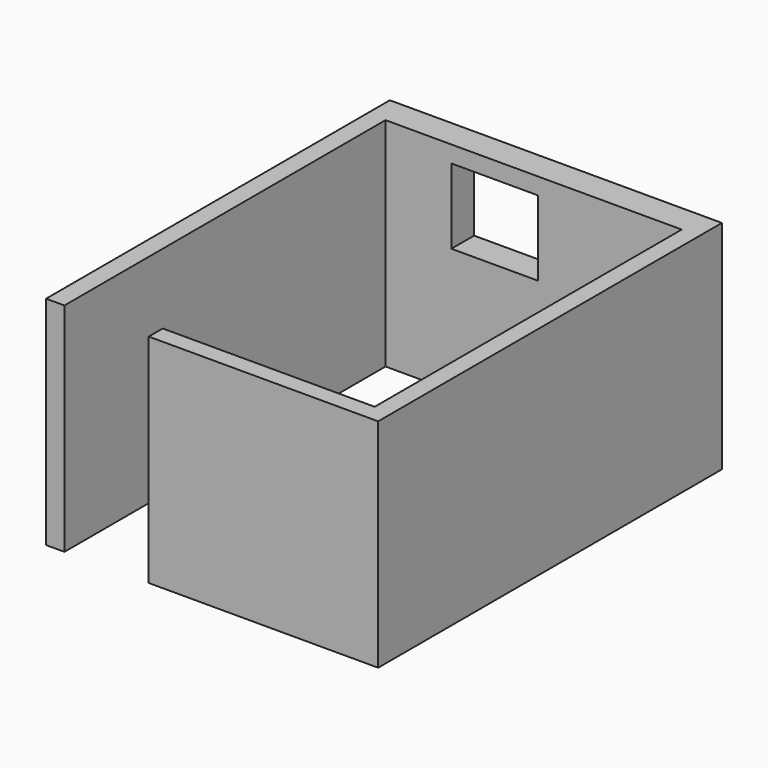
from build123d import *

# Parameters (mm, degrees)
F2_DEPTH = 20
F4_DEPTH = 220
F5_W     = 104
F5_H     = 90
F6_DEPTH = 40
F7_DEPTH = 25
F8_DEPTH = 20


with BuildPart() as f2:
    # F1 (on face) → F2 (new body)
    with BuildSketch(Plane.XY):
        Polygon((413, -75), (688, -75), (688, 440), (290, 440), (290, 406), (290, 141), (290, -75), align=None)
    extrude(amount=F2_DEPTH)

    # F3 (on face) → F4 (join)
    with BuildSketch(Plane.XY.offset(20)):
        Polygon((667, 406), (667, -54), (413, -54), (413, -75), (688, -75), (688, 406), (688, 440), (290, 440), (290, -75), (312, -75), (312, 43), (312, 124), (312, 406), align=None)
    extrude(amount=F4_DEPTH)

    # F5 (on face) → F6 (cut)
    with BuildSketch(Plane(origin=(0, 440, 0), x_dir=(-1, 0, 0), z_dir=(0, 1, 0))):
        with Locations((-443, 175)):
            Rectangle(F5_W, F5_H)
    extrude(amount=-F6_DEPTH, mode=Mode.SUBTRACT)

    # F7 (cut): a face of the model
    f7_faces = [f2.faces().sort_by_distance(p)[0] for p in [
        (487.8716275443, 172.9163497984, 20),
    ]]
    extrude(f7_faces, amount=-F7_DEPTH, mode=Mode.SUBTRACT)

    # F8 (add): a face of the model
    f8_faces = [f2.faces().sort_by_distance(p)[0] for p in [
        (550.5, -68.4913211786, 0),
    ]]
    extrude(f8_faces, amount=F8_DEPTH)


solid = f2.part
